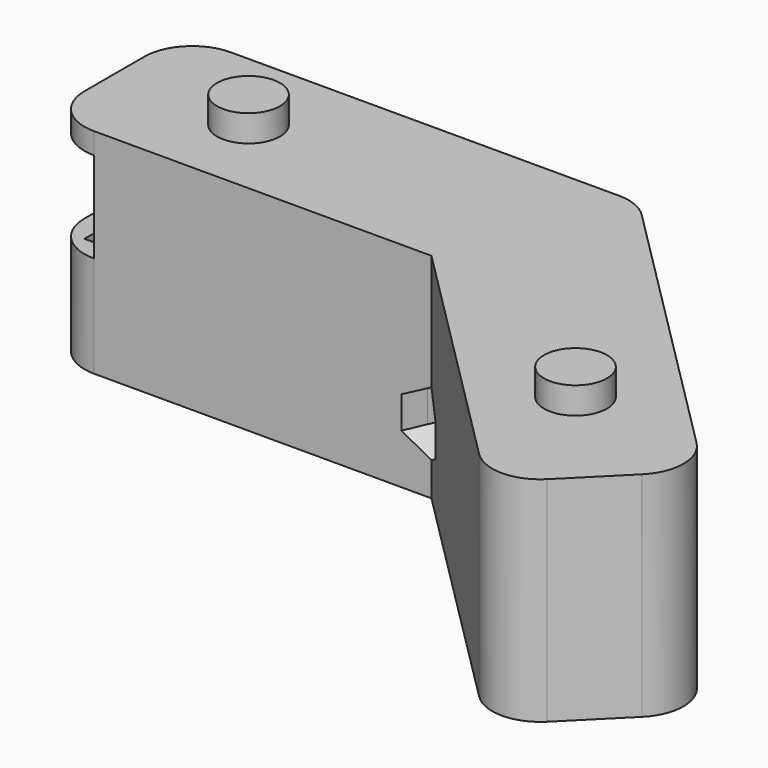
from build123d import *

# Parameters (mm, degrees)
PAD003_DEPTH    = 20
POCKET001_DEPTH = 18
SKETCH_W        = 4.5
SKETCH_H        = 8.5
POCKET_DEPTH    = 16.001
PAD_DEPTH       = 18
PAD004_DEPTH    = 3
POCKET002_DEPTH = 12
SKETCH009_R     = 1.5
POCKET003_DEPTH = 33.587329
POCKET004_DEPTH = 10
POCKET005_DEPTH = 4
SKETCH012_R     = 2.95
PAD005_DEPTH    = 2.5


with BuildPart() as part:
    # Sketch004 → Pad003 (new body)
    with BuildSketch(Plane.XY):
        with BuildLine():
            Line((-13.045215, -3.333566), (-13.045215, 3.666434))
            ThreePointArc((-8.545215, 8.166434), (-11.727196, 6.848415), (-13.045215, 3.666434))
            Line((-8.545215, 8.166434), (27.818241, 8.166434))
            ThreePointArc((31.000221, 6.848415), (29.540316, 7.823892), (27.818241, 8.166434))
            Line((31.000221, 6.848415), (56.713067, -18.864432))
            ThreePointArc((56.713067, -25.228393), (58.031087, -22.046412), (56.713067, -18.864432))
            Line((56.713067, -25.228393), (51.76332, -30.17814))
            ThreePointArc((45.399359, -30.17814), (48.581339, -31.49616), (51.76332, -30.17814))
            Line((45.399359, -30.17814), (23.054785, -7.833566))
            Line((23.054785, -7.833566), (-8.545215, -7.833566))
            ThreePointArc((-13.045215, -3.333566), (-11.727196, -6.515546), (-8.545215, -7.833566))
        make_face()
    extrude(amount=PAD003_DEPTH)

    # Sketch005 (on Face12 of Pad003) → Pocket001 (cut)
    with BuildSketch(Plane(origin=(0, 0, 0), x_dir=(1, 0, 0), z_dir=(0, 0, -1))):
        Polygon((-11.045215, -6.166434), (-11.045215, 5.833566), (23.883212, 5.833566), (48.581339, 30.531693), (57.066621, 22.046412), (28.853775, -6.166434), align=None)
    extrude(amount=-POCKET001_DEPTH, mode=Mode.SUBTRACT)

    # Sketch (on Face3 of Pocket001) → Pocket (cut, through all)
    with BuildSketch(Plane.XZ.offset(7.833566)):
        with Locations((-10.795215, 13.75)):
            Rectangle(SKETCH_W, SKETCH_H)
    extrude(amount=-POCKET_DEPTH, mode=Mode.SUBTRACT)

    # Sketch006 (on Face27 of Pocket) → Pad (join)
    with BuildSketch(Plane(origin=(0, 0, 18), x_dir=(1, 0, 0), z_dir=(0, 0, -1))):
        Polygon((21.083212, 5.833566), (21.083212, -6.166434), (28.853775, -6.166434), (34.348392, -0.671817), (25.863111, 7.813465), (23.883212, 5.833566), align=None)
    extrude(amount=PAD_DEPTH)

    # Sketch007 (on Face16 of Pad) → Pad004 (join)
    with BuildSketch(Plane(origin=(0, 0, 0), x_dir=(1, 0, 0), z_dir=(0, 0, -1))):
        Polygon((23.083212, 3.833566), (24.711639, 3.833566), (25.863111, 4.985038), (31.519965, -0.671817), (28.025347, -4.166434), (23.083212, -4.166434), align=None)
    extrude(amount=PAD004_DEPTH)

    # Sketch008 (on Face4 of Pad004) → Pocket002 (cut)
    with BuildSketch(Plane(origin=(0, 0, 0), x_dir=(1, 0, 0), z_dir=(0, 0, -1))):
        with BuildLine():
            Line((21.083212, -6.166434), (21.083212, -8.166434))
            Line((21.083212, -8.166434), (27.818241, -8.166434))
            ThreePointArc((27.818241, -8.166434), (29.540316, -7.823892), (31.000221, -6.848415))
            Line((35.762606, -2.08603), (31.000221, -6.848415))
            Line((34.348392, -0.671817), (35.762606, -2.08603))
            Line((28.853775, -6.166434), (34.348392, -0.671817))
            Line((21.083212, -6.166434), (28.853775, -6.166434))
        make_face()
    extrude(amount=-POCKET002_DEPTH, mode=Mode.SUBTRACT)

    # Sketch009 (on DatumPlane) → Pocket003 (cut, through all)
    with BuildSketch(Plane(origin=(20.996104, -12.803661, 1.052949), x_dir=(-0.003926, -0.009478, -0.999947), z_dir=(0.382663, 0.923831, -0.010259))):
        with Locations((-5.157433, 0)):
            Circle(SKETCH009_R)
    extrude(amount=POCKET003_DEPTH, mode=Mode.SUBTRACT)

    # Sketch010 (on DatumPlane) → Pocket004 (cut)
    with BuildSketch(Plane(origin=(20.996104, -12.803661, 1.052949), x_dir=(-0.003926, -0.009478, -0.999947), z_dir=(0.382663, 0.923831, -0.010259))):
        Polygon((-3.657433, -2.598076), (-2.157433, 0), (-3.657433, 2.598076), (-6.657433, 2.598076), (-8.157433, 0), (-6.657433, -2.598076), align=None)
    extrude(amount=POCKET004_DEPTH, mode=Mode.SUBTRACT)

    # Sketch011 (on Face47 of Pocket004) → Pocket005 (cut)
    with BuildSketch(Plane(origin=(0, 0, 18), x_dir=(1, 0, 0), z_dir=(0, 0, -1))):
        Polygon((21.083212, 5.833566), (21.083212, -6.166434), (28.853775, -6.166434), (34.348392, -0.671817), (25.863111, 7.813465), (23.883212, 5.833566), align=None)
    extrude(amount=POCKET005_DEPTH, mode=Mode.SUBTRACT)

    # Sketch012 (on Face7 of Pocket005) → Pad005 (join)
    with BuildSketch(Plane.XY.offset(20)):
        with Locations((-0.345215, 0)):
            Circle(SKETCH012_R)
        with Locations((45.257938, -18.72301)):
            Circle(SKETCH012_R)
    extrude(amount=PAD005_DEPTH)


solid = part.part
